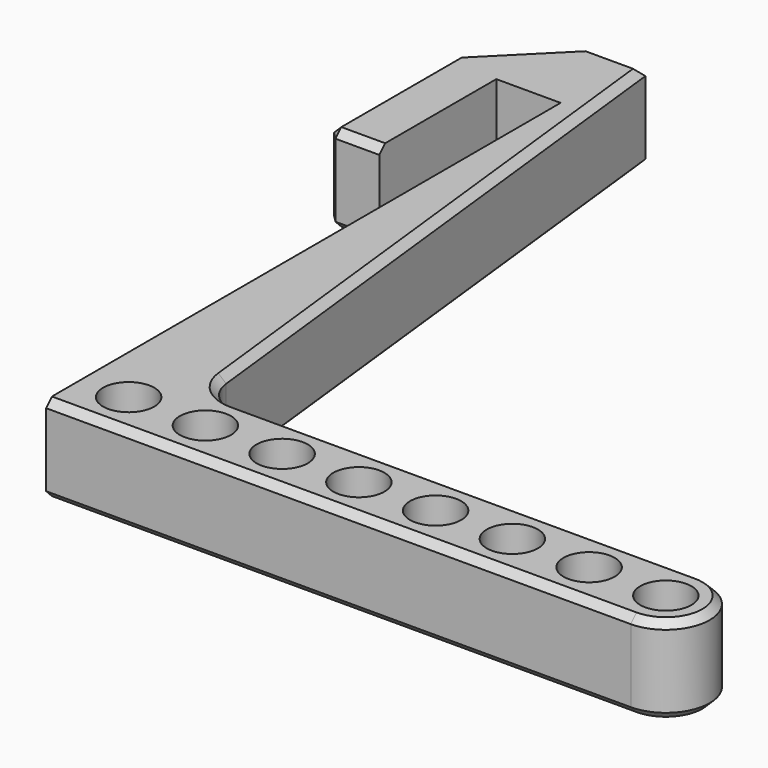
from build123d import *

# Parameters (mm, degrees)
F0_R     = 3.5
F1_DEPTH = 12
F3_DEPTH = 25
F4_R     = 5
F5_W     = 12
F5_H     = 12
F6_DEPTH = 15.8
F7_W     = 7
F7_H     = 12
F8_DEPTH = 20
F9_SIZE  = 10
F10_SIZE = 1


with BuildPart() as f1:
    # F0 (on Top) → F1 (new body)
    with BuildSketch(Plane.XY):
        with BuildLine():
            Line((12, 100), (0, 100))
            Line((0, 100), (0, 0))
            Line((0, 0), (80, 0))
            ThreePointArc((80, 0), (86, 6), (80, 12))
            Line((80, 12), (12, 12))
            Line((12, 12), (12, 100))
        make_face()
        with Locations((6.5, 6)):
            Circle(F0_R, mode=Mode.SUBTRACT)
        with Locations((17, 6)):
            Circle(F0_R, mode=Mode.SUBTRACT)
        with Locations((27.5, 6)):
            Circle(F0_R, mode=Mode.SUBTRACT)
        with Locations((38, 6)):
            Circle(F0_R, mode=Mode.SUBTRACT)
        with Locations((48.5, 6)):
            Circle(F0_R, mode=Mode.SUBTRACT)
        with Locations((59, 6)):
            Circle(F0_R, mode=Mode.SUBTRACT)
        with Locations((69.5, 6)):
            Circle(F0_R, mode=Mode.SUBTRACT)
        with Locations((80, 6)):
            Circle(F0_R, mode=Mode.SUBTRACT)
    extrude(amount=F1_DEPTH)

    # F2 (on face) → F3 (cut)
    with BuildSketch(Plane.XY.offset(12)):
        Polygon((2, 100), (12, 12), (12, 100), align=None)
    extrude(amount=-F3_DEPTH, mode=Mode.SUBTRACT)

    # F4
    f4_edges = [f1.edges().sort_by_distance(p)[0] for p in [
        (12, 12, 6),
    ]]
    fillet(f4_edges, radius=F4_R)

    # F5 (on face) → F6 (join)
    with BuildSketch(Plane(origin=(0, 0, 0), x_dir=(0, -1, 0), z_dir=(-1, 0, 0))):
        with Locations((-94, 6)):
            Rectangle(F5_W, F5_H)
    extrude(amount=F6_DEPTH)

    # F7 (on face) → F8 (join)
    with BuildSketch(Plane.XZ.offset(-88)):
        with Locations((-12.3, 6)):
            Rectangle(F7_W, F7_H)
    extrude(amount=F8_DEPTH)

    # F9
    f9_edges = [f1.edges().sort_by_distance(p)[0] for p in [
        (-15.8, 100, 6),
    ]]
    chamfer(f9_edges, length=F9_SIZE)

    # F10
    f10_edges = [f1.edges().sort_by_distance(p)[0] for p in [
        (6.747986, 58.217726, 12),
        (6.747986, 58.217726, 0),
        (-1.9, 100, 12),
        (-10.8, 95, 12),
        (-15.8, 79, 12),
        (-1.9, 100, 0),
        (-10.8, 95, 0),
        (-15.8, 79, 0),
        (-15.8, 68, 6),
        (-12.3, 68, 12),
        (-12.3, 68, 0),
    ]]
    chamfer(f10_edges, length=F10_SIZE)


solid = f1.part
